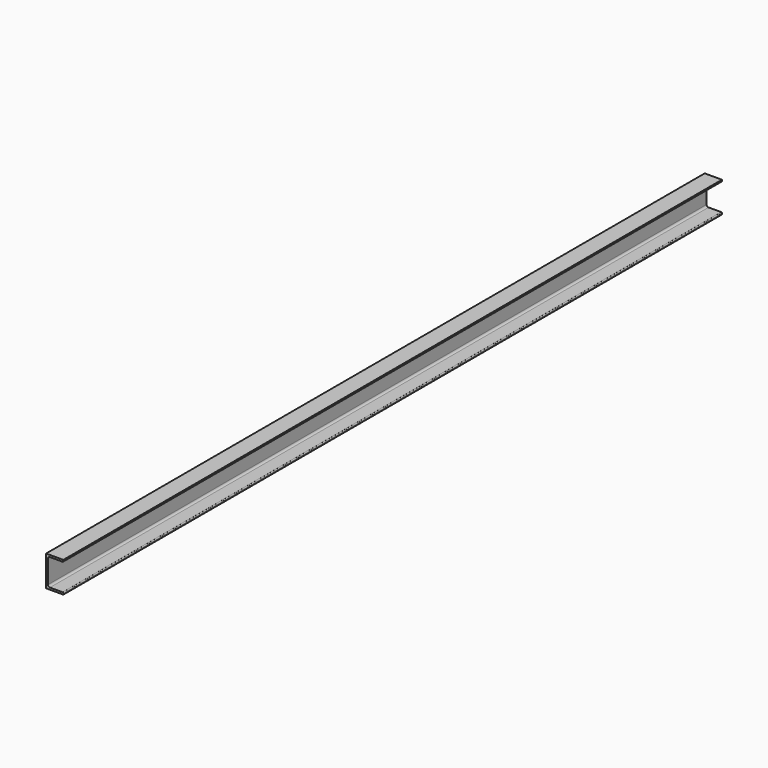
from build123d import *

# Parameters (mm, degrees)
F1_DEPTH = 2150


with BuildPart() as f1:
    # F0 (on Front) → F1 (new body)
    with BuildSketch(Plane.XZ):
        with BuildLine():
            Line((0, 80), (0, 0))
            Line((0, 0), (45, 0))
            Line((45, 0), (45, 3))
            ThreePointArc((45, 3), (44.414214, 4.414214), (43, 5))
            Line((43, 5), (10, 5))
            ThreePointArc((10, 5), (6.464466, 6.464466), (5, 10))
            Line((5, 10), (5, 70))
            ThreePointArc((5, 70), (6.464466, 73.535534), (10, 75))
            Line((10, 75), (43, 75))
            ThreePointArc((43, 75), (44.414214, 75.585786), (45, 77))
            Line((45, 77), (45, 80))
            Line((45, 80), (0, 80))
        make_face()
    extrude(amount=F1_DEPTH)


solid = f1.part
